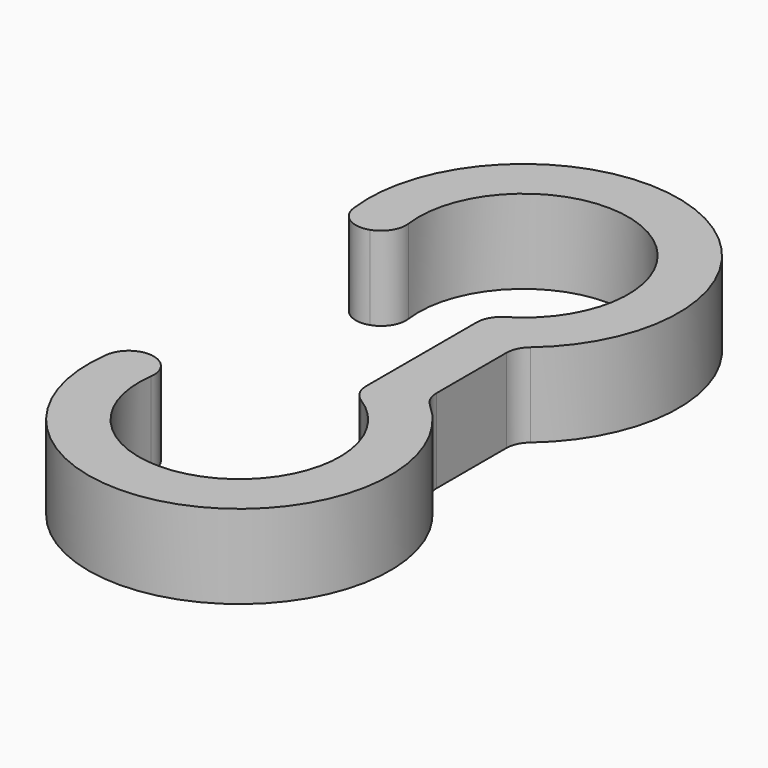
from build123d import *

# Parameters (mm, degrees)
PAD_DEPTH = 10
FILLET_R  = 2.99


with BuildPart() as part:
    # Sketch → Pad (new body)
    with BuildSketch(Plane.XY):
        with BuildLine():
            ThreePointArc((5, -11.456439), (5.06017, 11.42999), (-11.842719, -4))
            Line((-11.842719, -4), (-17.527225, -5.92))
            ThreePointArc((11, -14.874475), (5.540471, 17.650869), (-17.527225, -5.92))
            Line((11, -14.874475), (11, -28.117345))
            ThreePointArc((-16.970563, -36.365151), (5.09102, -59.630189), (11, -28.117345))
            Line((-11.313708, -38.365151), (-16.970563, -36.365151))
            ThreePointArc((-11.313708, -38.365151), (4.679562, -53.415115), (5, -31.456439))
            Line((5, -11.456439), (5, -31.456439))
        make_face()
    extrude(amount=PAD_DEPTH)

    # Fillet
    fillet_edges = [part.edges().sort_by_distance(p)[0] for p in [
        (-17.527225, -5.92, 5),
        (-11.842719, -4, 5),
        (-11.313708, -38.365151, 5),
        (-16.970563, -36.365151, 5),
        (5, -31.456439, 5),
        (5, -11.456439, 5),
        (11, -14.874475, 5),
        (11, -28.117345, 5),
    ]]
    fillet(fillet_edges, radius=FILLET_R)


solid = part.part
